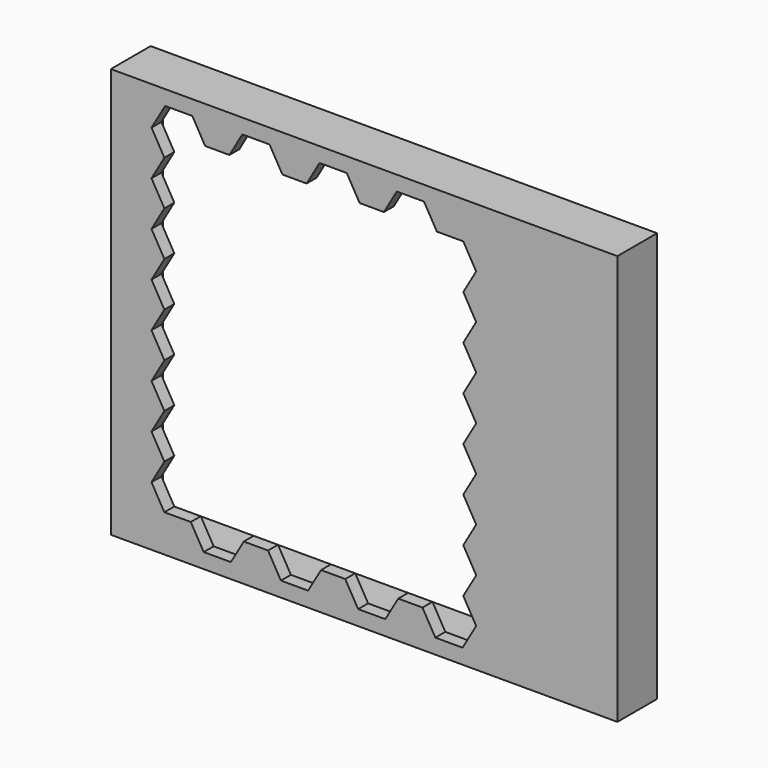
from build123d import *

# Parameters (mm, degrees)
F1_W     = 258.840755
F1_H     = 209.543214
F2_DEPTH = 25.4
F3_DEPTH = 25.4
F4_W     = 239.790755
F4_H     = 196.843214
F5_DEPTH = 19.05


with BuildPart() as f2:
    # F1 (on Front) → F2 (new body)
    with BuildSketch(Plane.XZ):
        with Locations((20.0017, 0.897209)):
            Rectangle(F1_W, F1_H)
    extrude(amount=-F2_DEPTH)

    # F0 (on Front) → F3 (cut)
    with BuildSketch(Plane.XZ):
        Polygon((-88.651664, 86.055733), (-82.07436, 74.663833), (-88.651664, 63.271933), (-82.07436, 51.880033), (-88.651664, 40.488133), (-82.07436, 29.096233), (-88.651664, 17.704333), (-82.07436, 6.312433), (-88.651664, -5.079467), (-82.07436, -16.471367), (-88.651664, -27.863267), (-82.07436, -39.255167), (-88.651664, -50.647067), (-82.07436, -62.038967), (-88.651664, -73.430867), (-82.07436, -84.822767), (-68.5546, -84.810067), (-61.977295, -96.201967), (-48.074809, -96.201967), (-41.497504, -84.810067), (-29.09062, -84.810067), (-22.513315, -96.201967), (-8.610829, -96.201967), (-2.033524, -84.810067), (10.37336, -84.810067), (16.950665, -96.201967), (30.853151, -96.201967), (37.430456, -84.810067), (49.83734, -84.810067), (56.414645, -96.201967), (70.308445, -96.201967), (77.259713, -84.162367), (70.682409, -72.770467), (77.259713, -61.378567), (70.682409, -49.986667), (77.259713, -38.594767), (70.682409, -27.202867), (77.259713, -15.810967), (70.682409, -4.419067), (77.259713, 6.972833), (70.682409, 18.364733), (77.259713, 29.756633), (70.682409, 41.148533), (77.259713, 52.540433), (70.682409, 63.932333), (77.259713, 75.324233), (70.681266, 86.718775), (57.162446, 86.703433), (50.585141, 98.095333), (36.682655, 98.095333), (30.10535, 86.703433), (17.698466, 86.703433), (11.121161, 98.095333), (-2.781325, 98.095333), (-9.35863, 86.703433), (-21.765514, 86.703433), (-28.342819, 98.095333), (-42.252925, 98.095333), (-48.83023, 86.703433), (-61.237114, 86.703433), (-67.814419, 98.095333), (-81.700395, 98.095333), align=None)
    extrude(amount=-F3_DEPTH, mode=Mode.SUBTRACT)

    # F4 (on face) → F5 (cut)
    with BuildSketch(Plane(origin=(0, 25.4, 0), x_dir=(-1, 0, 0), z_dir=(0, 1, 0))):
        with Locations((-16.826699, 0.897209)):
            Rectangle(F4_W, F4_H)
    extrude(amount=-F5_DEPTH, mode=Mode.SUBTRACT)


solid = f2.part
